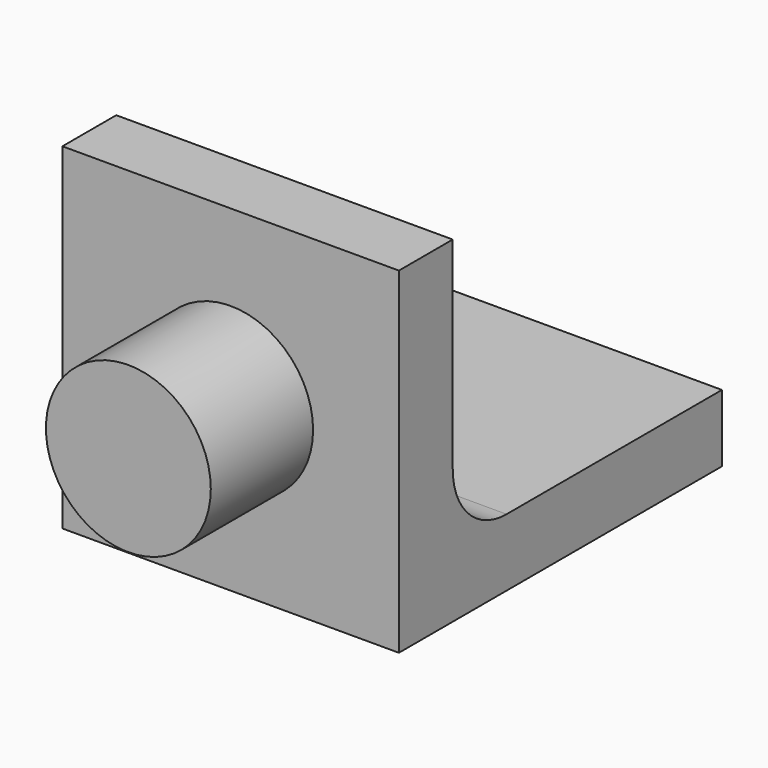
from build123d import *

# Parameters (mm, degrees)
SKETCH_W     = 10
SKETCH_H     = 10
PAD_DEPTH    = 2
SKETCH001_W  = 10
SKETCH001_H  = 10
PAD001_DEPTH = 2
SKETCH002_R  = 2.45
PAD002_DEPTH = 3.8
FILLET_R     = 2


with BuildPart() as part:
    # Sketch → Pad (new body)
    with BuildSketch(Plane.XY):
        Rectangle(SKETCH_W, SKETCH_H)
    extrude(amount=PAD_DEPTH)

    # Sketch001 (on Face3 of Pad) → Pad001 (join)
    with BuildSketch(Plane.XZ.offset(5)):
        with Locations((0, 5)):
            Rectangle(SKETCH001_W, SKETCH001_H)
    extrude(amount=PAD001_DEPTH)

    # Sketch002 → Pad002 (join)
    with BuildSketch(Plane.XZ.offset(7)):
        with Locations((0, 5)):
            Circle(SKETCH002_R)
    extrude(amount=PAD002_DEPTH)

    # Fillet
    fillet_edges = [part.edges().sort_by_distance(p)[0] for p in [
        (0, -5, 2),
    ]]
    fillet(fillet_edges, radius=FILLET_R)


solid = part.part
